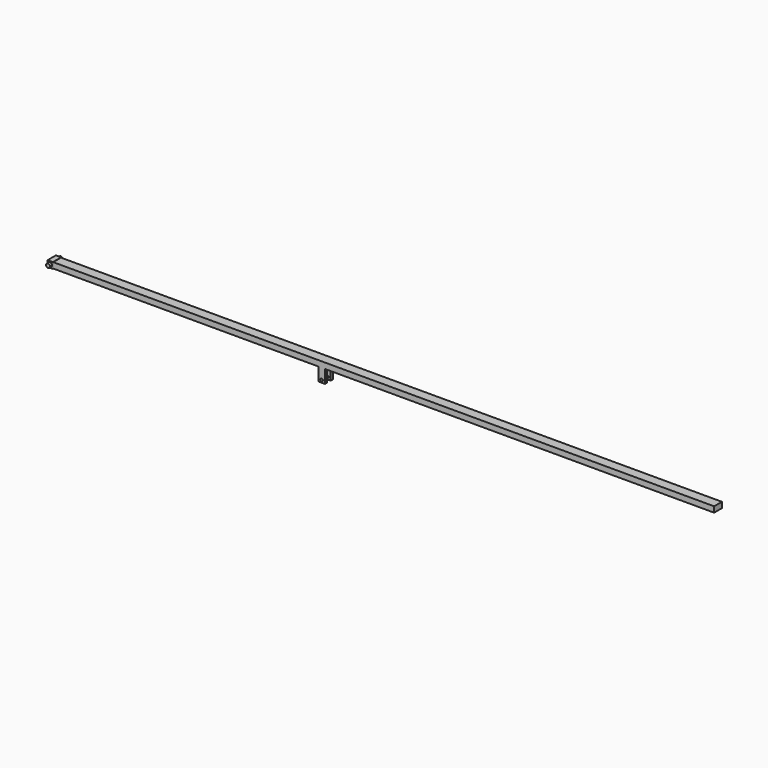
from build123d import *

# Parameters (mm, degrees)
F0_W      = 24
F0_H      = 9
F1_DEPTH  = 4
F2_W      = 8
F2_H      = 9
F2_R      = 3
F3_DEPTH  = 4
F4_W      = 8
F4_H      = 9
F4_R      = 3
F5_DEPTH  = 4
F6_W      = 14.751910232
F6_H      = 8.5369339213
F7_DEPTH  = 1000
F8_W      = 10
F8_H      = 4
F9_DEPTH  = 20
F10_DEPTH = 20
F11_R     = 1.9919096681
F12_DEPTH = 50


with BuildPart() as f1:
    # F0 (on Right) → F1 (new body, symmetric)
    with BuildSketch(Plane.YZ):
        Rectangle(F0_W, F0_H)
    extrude(amount=F1_DEPTH, both=True)

    # F2 (on face) → F3 (cut)
    with BuildSketch(Plane.XZ.offset(12)):
        Rectangle(F2_W, F2_H)
        Circle(F2_R, mode=Mode.SUBTRACT)
    extrude(amount=-F3_DEPTH, mode=Mode.SUBTRACT)

    # F4 (on face) → F5 (cut)
    with BuildSketch(Plane(origin=(0, 12, 0), x_dir=(-1, 0, 0), z_dir=(0, 1, 0))):
        Rectangle(F4_W, F4_H)
        Circle(F4_R, mode=Mode.SUBTRACT)
    extrude(amount=-F5_DEPTH, mode=Mode.SUBTRACT)

    # F6 (on face) → F7 (join)
    with BuildSketch(Plane.YZ.offset(4)):
        Rectangle(F6_W, F6_H)
    extrude(amount=F7_DEPTH)

    # F8 (on face) → F9 (join)
    with BuildSketch(Plane(origin=(0, 0, -4.2684669606), x_dir=(1, 0, 0), z_dir=(0, 0, -1))):
        with Locations((410.2546322346, 5.375955116)):
            Rectangle(F8_W, F8_H)
    extrude(amount=F9_DEPTH)

    # F8 (on face) → F10 (join)
    with BuildSketch(Plane(origin=(0, 0, -4.2684669606), x_dir=(1, 0, 0), z_dir=(0, 0, -1))):
        with Locations((410.2546322346, -5.375955116)):
            Rectangle(F8_W, F8_H)
    extrude(amount=F10_DEPTH)

    # F11 (on face) → F12 (cut)
    with BuildSketch(Plane.XZ.offset(7.375955116)):
        with Locations((410.2546322346, -20.4669394419)):
            Circle(F11_R)
    extrude(amount=-F12_DEPTH, mode=Mode.SUBTRACT)


solid = f1.part
